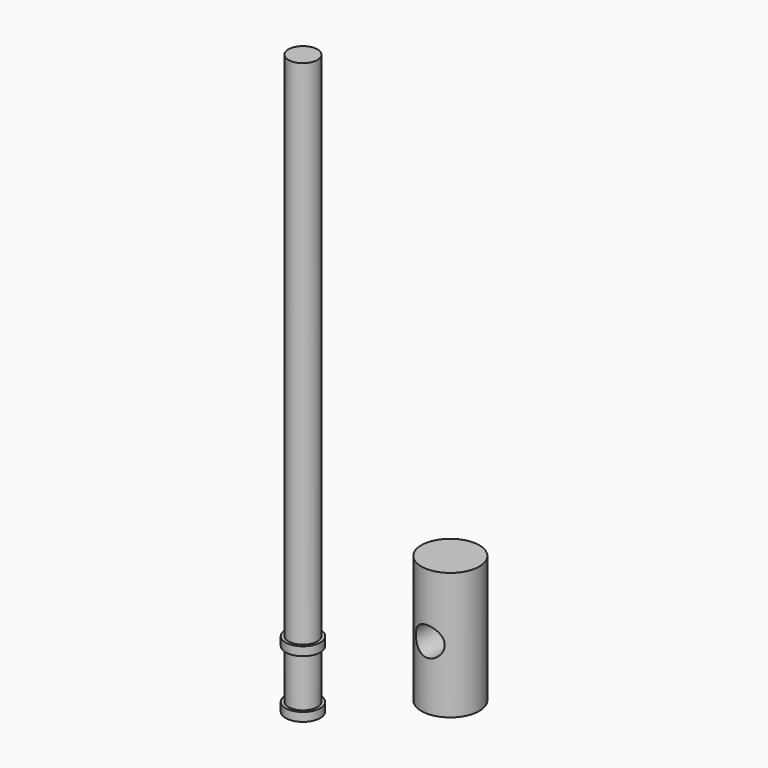
from build123d import *

# Parameters (mm, degrees)
F0_R          = 10
F1_DEPTH      = 44
F2_R          = 5
F3_DEPTH      = 25
F3_DEPTH_BACK = 21.05684
F4_R          = 6
F4_R_2        = 5
F5_DEPTH      = 3
F6_DEPTH      = 200
F8_DEPTH      = 3


with BuildPart() as f1:
    # F0 (on Top) → F1 (new body)
    with BuildSketch(Plane.XY):
        Circle(F0_R)
    extrude(amount=F1_DEPTH)

    # F2 (on Front) → F3 (cut, two sides)
    with BuildSketch(Plane.XZ) as f3_sk:
        with Locations((0, 22)):
            Circle(F2_R)
    extrude(amount=-F3_DEPTH, mode=Mode.SUBTRACT)
    extrude(f3_sk.sketch, amount=F3_DEPTH_BACK, mode=Mode.SUBTRACT)


with BuildPart() as f5:
    # F4 (on Top) → F5 (new body)
    with BuildSketch(Plane.XY):
        with Locations((-50.9548272629, 0)):
            Circle(F4_R)
        with Locations((-50.9548272629, 0)):
            Circle(F4_R_2, mode=Mode.SUBTRACT)
        with Locations((-50.9548272629, 0)):
            Circle(F4_R_2)
    extrude(amount=F5_DEPTH)

    # F4 (on Top) → F6 (join)
    with BuildSketch(Plane.XY):
        with Locations((-50.9548272629, 0)):
            Circle(F4_R_2)
    extrude(amount=F6_DEPTH)


with BuildPart() as f5_1:
    # F7: moved
    add(f5.part.moved(Location((0, 0, -20))))

    # F4 (on Top) → F8 (join)
    with BuildSketch(Plane.XY):
        with Locations((-50.9548272629, 0)):
            Circle(F4_R)
        with Locations((-50.9548272629, 0)):
            Circle(F4_R_2, mode=Mode.SUBTRACT)
    extrude(amount=F8_DEPTH)


solid = Compound([f1.part, f5_1.part])
